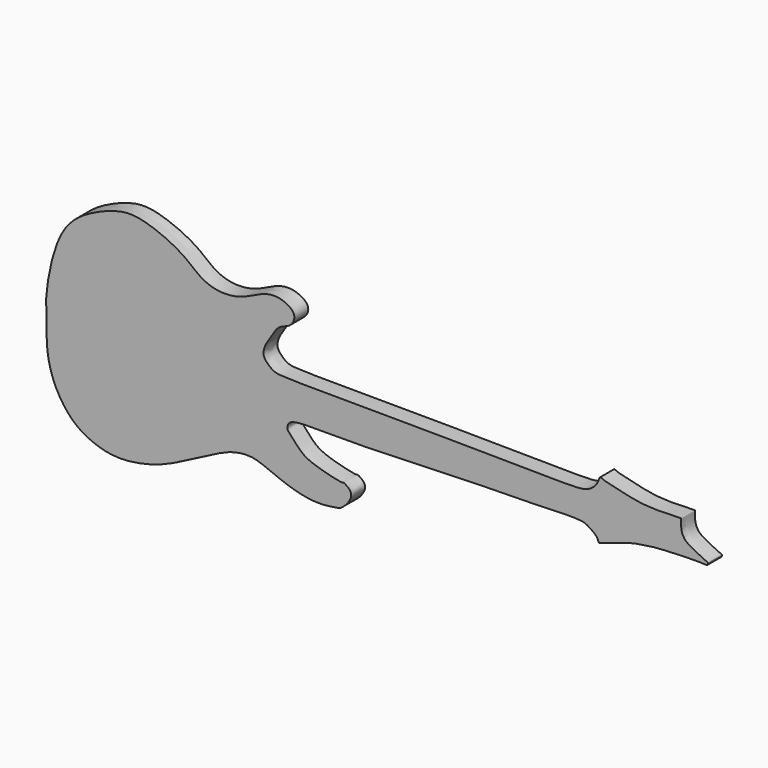
from build123d import *

# Parameters (mm, degrees)
F1_DEPTH = 3.92797
F2_R     = 1.0988386966
F3_DEPTH = 0.74672
F5_DEPTH = 0.33172


with BuildPart() as f1:
    # F0 (on Front) → F1 (new body)
    with BuildSketch(Plane.XZ):
        with BuildLine():
            add(Edge.make_bspline(
                [(-74.3735507131, 1.6437844606), (-74.2149126214, 4.7179079977), (-72.2870634714, 16.9712199446), (-64.2349774652, 22.299039981), (-57.4685594848, 24.8868537343), (-52.0641188374, 24.6357297192), (-43.251658232, 20.8567613211), (-39.4757972803, 16.8002604728), (-34.4329974392, 15.4366468316), (-29.4619576852, 16.3719015505), (-25.0788837868, 19.0906054738), (-21.0969252198, 19.1211729725), (-17.6749706717, 16.9889698999), (-19.0618611023, 13.9298922814), (-21.8535561994, 13.5593675719), (-23.4524076493, 10.8748325001), (-24.9990259804, 8.5833526365), (-25.4703483239, 6.7343227547), (-24.8935107149, 5.4905043738), (-23.1712260622, 3.9025841656), (-20.443065527, 3.4348249604), (-2.5995352642, 3.6546427516), (39.1200827771, 3.050669171), (46.6048791658, 3.0926083809), (48.3394229812, 3.7951287784), (49.2794434406, 4.4799724358), (50.1830394562, 5.5217301816), (50.5290984376, 7.1551456398), (51.4364611844, 6.4792305201), (55.1093768529, 5.6957371067), (58.878852671, 4.8043550969), (62.9244238782, 4.3873232957), (68.772627519, 4.6865757341), (68.935378932, 4.6588644775), (68.956300802, 4.4507472329), (68.9548798914, 4.2701912921), (68.8544445063, 2.329960015), (69.5641494048, 0.9567307999), (70.354383955, 0.0119191151), (74.9718084473, -2.2688369285), (74.9857320784, -2.0876835258), (75.0280324135, -2.3039992489), (74.9316010317, -2.5027661136), (74.7940388613, -2.8289023538), (74.3851987455, -2.6633978439), (70.3516579195, -2.6823988544), (67.7969786002, -2.7943250017), (62.3787777854, -3.0074994523), (56.5518926691, -3.9717071653), (50.6673686103, -6.2454811935), (50.344258654, -6.2756384379), (50.2326277936, -5.8720256028), (49.7580991675, -4.8585560388), (48.1634906436, -3.8721339157), (46.6230106777, -2.7912359628), (36.0594189773, -3.3833984086), (22.4634098978, -3.3796242839), (0.6477426604, -4.4075895605), (-10.9495578279, -4.3327807015), (-17.6270942862, -4.355183013), (-18.7194833737, -4.7654495464), (-19.4820669622, -4.9909800102), (-19.8433002851, -5.6236654738), (-20.0308511409, -6.5354929742), (-19.4594049822, -7.1111292762), (-18.5656209365, -8.0599768961), (-16.7172205212, -10.3360776807), (-13.5210482607, -11.8889422283), (-7.460591292, -13.2992646662), (-7.315701401, -12.894560412), (-5.4006366062, -14.0258453322), (-5.4764799234, -15.9845336316), (-7.651924157, -18.362132974), (-9.0902234558, -18.5497752826), (-13.2730218611, -19.2734332464), (-20.0395427525, -17.8734529734), (-26.5273798058, -14.7062413252), (-29.6853725609, -14.5705446841), (-33.4208203948, -15.1653137926), (-41.1667421052, -19.3541165147), (-48.4653885083, -23.1954093317), (-55.6370912761, -24.7473906136), (-60.4949150004, -24.5786565463), (-65.164348508, -22.9858952958), (-68.7849924394, -20.4752935787), (-72.2292379336, -15.8347054457), (-74.49702309, -9.069496812), (-74.1318384524, -1.3845724701), (-74.4486587503, 0.1883245342), (-74.3735507131, 1.6437844606)],
                knots=[0, 0, 0, 0, 0.0233769102, 0.0424514014, 0.0584528868, 0.0726882229, 0.0914660378, 0.105995406, 0.1194785375, 0.1332195595, 0.1470405791, 0.1591921377, 0.1703595073, 0.1800266003, 0.1899175398, 0.2005356537, 0.2109213936, 0.2190370016, 0.2260105901, 0.2349849706, 0.2441036218, 0.2699901039, 0.3106062204, 0.3265153351, 0.3339890789, 0.3404539402, 0.3478634503, 0.3548994155, 0.360056101, 0.3719247503, 0.3841171969, 0.3974504859, 0.4117295728, 0.4135293568, 0.4160254232, 0.4187030762, 0.4270505271, 0.4345412194, 0.4422642638, 0.4556830413, 0.4565049137, 0.4589213535, 0.4620599836, 0.4653092731, 0.4687669848, 0.4807577205, 0.4912872633, 0.5050950385, 0.5211664449, 0.5359314713, 0.5384816885, 0.5420005795, 0.5484463823, 0.5566508758, 0.5646542229, 0.5836101479, 0.6073652979, 0.6361129394, 0.6576773291, 0.6726596679, 0.6789273941, 0.6840660192, 0.6892183732, 0.6948873302, 0.7000918396, 0.7070617615, 0.71718986, 0.7297349588, 0.744400293, 0.7472238105, 0.755462808, 0.7637172966, 0.774323061, 0.7816090457, 0.7937666067, 0.8103249147, 0.8267791783, 0.837313312, 0.8488864824, 0.8670552636, 0.8851691444, 0.9015661442, 0.9150488246, 0.9284504204, 0.9412301519, 0.9557436703, 0.9724553113, 0.9889320792, 1, 1, 1, 1], degree=3))
        make_face()
    extrude(amount=F1_DEPTH)

    # F2 (on Front) → F3 (join)
    with BuildSketch(Plane.XZ):
        with Locations((64.1347907743, 2.764883684)):
            Circle(F2_R)
        with Locations((58.5975907743, 3.1268105377)):
            Circle(F2_R)
        with Locations((53.0480444431, 4.4056195766)):
            Circle(F2_R)
        with Locations((53.7960268557, -2.5675077923)):
            Circle(F2_R)
        with Locations((58.9836463332, -1.2163138017)):
            Circle(F2_R)
        with Locations((64.171269536, -0.3959457972)):
            Circle(F2_R)
    extrude(amount=-F3_DEPTH)

    # F4 (on Front) → F5 (join)
    with BuildSketch(Plane.XZ):
        Polygon((63.3459761739, 1.8109515077), (65.8199042082, 1.8109515077), (65.8199042082, 3.9201178588), (63.5467320681, 3.9201178588), (61.4761933684, 2.1436566021), (61.717422888, 1.86249367), (62.2412826394, 2.3119499166), (62.57324108, 1.9250386934), (62.4466985464, 1.2606482487), (62.6100194689, 1.2295414749), align=None)
        Polygon((57.8194255159, 2.1656688457), (60.2933535502, 2.1656688457), (60.2933535502, 4.2748351968), (58.02018141, 4.2748351968), (55.9496427104, 2.4983739401), (56.19087223, 2.217211008), (56.7147319814, 2.6666672546), (57.046690422, 2.2797560314), (56.9203445293, 1.6153281639), (57.0834222786, 1.5843177189), align=None)
        Polygon((52.297488126, 3.4488823419), (54.7714161603, 3.4488823419), (54.7714161603, 5.558048693), (52.4982440202, 5.558048693), (50.4277053206, 3.7815874364), (50.6689348401, 3.5004245042), (51.1927945916, 3.9498807508), (51.5247530321, 3.5629695276), (51.3982104985, 2.8985790829), (51.561531421, 2.8674723091), align=None)
        Polygon((53.0116858809, -3.531488301), (55.4856139152, -3.531488301), (55.4856139152, -1.4223219498), (53.212441775, -1.4223219498), (51.1419030754, -3.1987832065), (51.383132595, -3.4799461386), (51.9069923464, -3.030489892), (52.238950787, -3.4174011152), (52.1124082534, -4.0817915599), (52.2757291758, -4.1128983338), align=None)
        Polygon((58.213878694, -2.1835114769), (60.6878067283, -2.1835114769), (60.6878067283, -0.0743451258), (58.4146345882, -0.0743451258), (56.3440958886, -1.8508063825), (56.5853254081, -2.1319693146), (57.1091851596, -1.682513068), (57.4411436001, -2.0694242912), (57.3146010666, -2.7338147359), (57.477921989, -2.7649215097), align=None)
        Polygon((63.2813724606, -1.330482339), (65.7553004949, -1.330482339), (65.7553004949, 0.7786840122), (63.4821283548, 0.7786840122), (61.4115896551, -0.9977772445), (61.6528191747, -1.2789401766), (62.1766789261, -0.82948393), (62.5086373667, -1.2163951532), (62.3820948331, -1.8807855979), (62.5454157555, -1.9118923718), align=None)
    extrude(amount=-F5_DEPTH)


solid = f1.part
